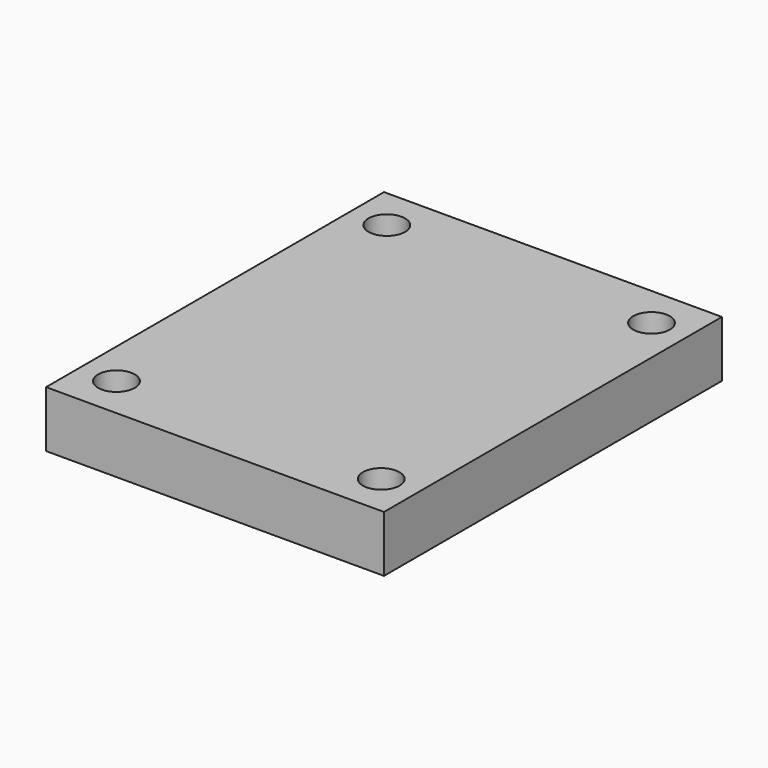
from build123d import *

# Parameters (mm, degrees)
F0_W     = 60
F0_H     = 75
F1_DEPTH = 10
F2_R     = 3.25
F3_DEPTH = 10.001


with BuildPart() as f1:
    # F0 (on Top) → F1 (new body)
    with BuildSketch(Plane.XY):
        Rectangle(F0_W, F0_H)
    extrude(amount=-F1_DEPTH)

    # F2 (on Top) → F3 (cut, through all)
    with BuildSketch(Plane.XY):
        with Locations((-23.5, 30)):
            Circle(F2_R)
        with Locations((23.5, 30)):
            Circle(F2_R)
        with Locations((-23.5, -30)):
            Circle(F2_R)
        with Locations((23.5, -30)):
            Circle(F2_R)
    extrude(amount=-F3_DEPTH, mode=Mode.SUBTRACT)


solid = f1.part
